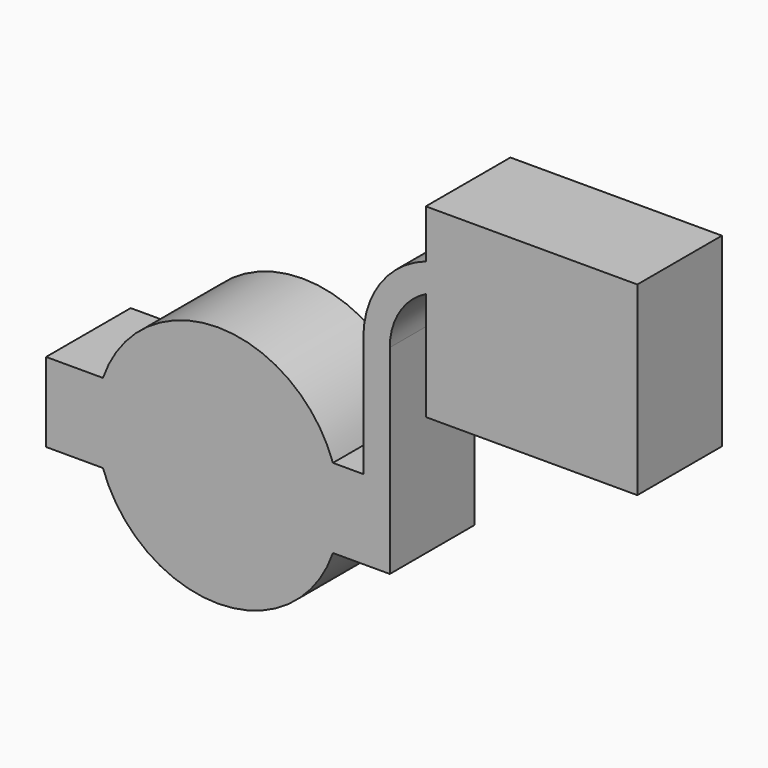
from build123d import *

# Parameters (mm, degrees)
F1_DEPTH = 25.4
F2_DEPTH = 25.4
F3_DEPTH = 25.4
F4_DEPTH = 25.4


with BuildPart() as f1:
    # F0 (on Front) → F1 (new body)
    with BuildSketch(Plane.XZ):
        with BuildLine():
            Line((34.9249988794, 38.3535841248), (34.9249988794, 9.525))
            Line((34.9249988794, 9.525), (41.275, 9.525))
            Line((41.275, 9.525), (41.275, 38.3535841248))
            ThreePointArc((41.275, 38.3535841248), (43.6085299046, 46.6387644279), (49.9230897833, 52.4882009827))
            Line((49.9230897833, 52.4882009827), (49.9230897833, 59.3707781223))
            ThreePointArc((49.9230897833, 59.3707781223), (39.0589972297, 51.2635141623), (34.9249988794, 38.3535841248))
        make_face()
        with BuildLine():
            Line((41.275, 9.525), (34.9249988794, 9.525))
            Line((34.9249988794, 9.525), (27.6167455206, 9.525))
            ThreePointArc((27.6167455206, 9.525), (28.811311946, 4.8289297054), (29.2131863745, 0))
            ThreePointArc((29.2131863745, 0), (28.811311946, -4.8289297054), (27.6167455206, -9.525))
            Line((27.6167455206, -9.525), (41.275, -9.525))
            Line((41.275, -9.525), (41.275, 9.525))
        make_face()
        with BuildLine():
            ThreePointArc((29.2131863745, 0), (28.811311946, 4.8289297054), (27.6167455206, 9.525))
            Line((27.6167455206, 9.525), (-27.6167455206, 9.525))
            ThreePointArc((-27.6167455206, 9.525), (-29.2131863745, 0), (-27.6167455206, -9.525))
            Line((-27.6167455206, -9.525), (27.6167455206, -9.525))
            ThreePointArc((27.6167455206, -9.525), (28.811311946, -4.8289297054), (29.2131863745, 0))
        make_face()
        with BuildLine():
            Line((-27.6167455206, 9.525), (27.6167455206, 9.525))
            ThreePointArc((27.6167455206, 9.525), (0, 29.2131863745), (-27.6167455206, 9.525))
        make_face()
        with BuildLine():
            ThreePointArc((-27.6167455206, -9.525), (-29.2131863745, 0), (-27.6167455206, 9.525))
            Line((-27.6167455206, 9.525), (-41.275, 9.525))
            Line((-41.275, 9.525), (-41.275, -9.525))
            Line((-41.275, -9.525), (-27.6167455206, -9.525))
        make_face()
        Polygon((49.9230897833, 71.0192042329), (49.9230897833, 59.3707781223), (49.9230897833, 52.4882009827), (49.9230897833, 26.4684122215), (100.7230897833, 26.4684122215), (100.7230897833, 71.0192042329), align=None)
        with BuildLine():
            ThreePointArc((-27.6167455206, -9.525), (0, -29.2131863745), (27.6167455206, -9.525))
            Line((27.6167455206, -9.525), (-27.6167455206, -9.525))
        make_face()
    extrude(amount=F1_DEPTH)

    # F0 (on Front) → F2 (join)
    with BuildSketch(Plane.XZ):
        with BuildLine():
            Line((34.9249988794, 38.3535841248), (34.9249988794, 9.525))
            Line((34.9249988794, 9.525), (41.275, 9.525))
            Line((41.275, 9.525), (41.275, 38.3535841248))
            ThreePointArc((41.275, 38.3535841248), (43.6085299046, 46.6387644279), (49.9230897833, 52.4882009827))
            Line((49.9230897833, 52.4882009827), (49.9230897833, 59.3707781223))
            ThreePointArc((49.9230897833, 59.3707781223), (39.0589972297, 51.2635141623), (34.9249988794, 38.3535841248))
        make_face()
        with BuildLine():
            Line((41.275, 9.525), (34.9249988794, 9.525))
            Line((34.9249988794, 9.525), (27.6167455206, 9.525))
            ThreePointArc((27.6167455206, 9.525), (28.811311946, 4.8289297054), (29.2131863745, 0))
            ThreePointArc((29.2131863745, 0), (28.811311946, -4.8289297054), (27.6167455206, -9.525))
            Line((27.6167455206, -9.525), (41.275, -9.525))
            Line((41.275, -9.525), (41.275, 9.525))
        make_face()
        with BuildLine():
            ThreePointArc((29.2131863745, 0), (28.811311946, 4.8289297054), (27.6167455206, 9.525))
            Line((27.6167455206, 9.525), (-27.6167455206, 9.525))
            ThreePointArc((-27.6167455206, 9.525), (-29.2131863745, 0), (-27.6167455206, -9.525))
            Line((-27.6167455206, -9.525), (27.6167455206, -9.525))
            ThreePointArc((27.6167455206, -9.525), (28.811311946, -4.8289297054), (29.2131863745, 0))
        make_face()
        with BuildLine():
            Line((-27.6167455206, 9.525), (27.6167455206, 9.525))
            ThreePointArc((27.6167455206, 9.525), (0, 29.2131863745), (-27.6167455206, 9.525))
        make_face()
        with BuildLine():
            ThreePointArc((-27.6167455206, -9.525), (-29.2131863745, 0), (-27.6167455206, 9.525))
            Line((-27.6167455206, 9.525), (-41.275, 9.525))
            Line((-41.275, 9.525), (-41.275, -9.525))
            Line((-41.275, -9.525), (-27.6167455206, -9.525))
        make_face()
        Polygon((49.9230897833, 71.0192042329), (49.9230897833, 59.3707781223), (49.9230897833, 52.4882009827), (49.9230897833, 26.4684122215), (100.7230897833, 26.4684122215), (100.7230897833, 71.0192042329), align=None)
        with BuildLine():
            ThreePointArc((-27.6167455206, -9.525), (0, -29.2131863745), (27.6167455206, -9.525))
            Line((27.6167455206, -9.525), (-27.6167455206, -9.525))
        make_face()
    extrude(amount=F2_DEPTH)

    # F0 (on Front) → F3 (join)
    with BuildSketch(Plane.XZ):
        with BuildLine():
            Line((34.9249988794, 38.3535841248), (34.9249988794, 9.525))
            Line((34.9249988794, 9.525), (41.275, 9.525))
            Line((41.275, 9.525), (41.275, 38.3535841248))
            ThreePointArc((41.275, 38.3535841248), (43.6085299046, 46.6387644279), (49.9230897833, 52.4882009827))
            Line((49.9230897833, 52.4882009827), (49.9230897833, 59.3707781223))
            ThreePointArc((49.9230897833, 59.3707781223), (39.0589972297, 51.2635141623), (34.9249988794, 38.3535841248))
        make_face()
        with BuildLine():
            Line((41.275, 9.525), (34.9249988794, 9.525))
            Line((34.9249988794, 9.525), (27.6167455206, 9.525))
            ThreePointArc((27.6167455206, 9.525), (28.811311946, 4.8289297054), (29.2131863745, 0))
            ThreePointArc((29.2131863745, 0), (28.811311946, -4.8289297054), (27.6167455206, -9.525))
            Line((27.6167455206, -9.525), (41.275, -9.525))
            Line((41.275, -9.525), (41.275, 9.525))
        make_face()
        with BuildLine():
            ThreePointArc((29.2131863745, 0), (28.811311946, 4.8289297054), (27.6167455206, 9.525))
            Line((27.6167455206, 9.525), (-27.6167455206, 9.525))
            ThreePointArc((-27.6167455206, 9.525), (-29.2131863745, 0), (-27.6167455206, -9.525))
            Line((-27.6167455206, -9.525), (27.6167455206, -9.525))
            ThreePointArc((27.6167455206, -9.525), (28.811311946, -4.8289297054), (29.2131863745, 0))
        make_face()
        with BuildLine():
            Line((-27.6167455206, 9.525), (27.6167455206, 9.525))
            ThreePointArc((27.6167455206, 9.525), (0, 29.2131863745), (-27.6167455206, 9.525))
        make_face()
        with BuildLine():
            ThreePointArc((-27.6167455206, -9.525), (-29.2131863745, 0), (-27.6167455206, 9.525))
            Line((-27.6167455206, 9.525), (-41.275, 9.525))
            Line((-41.275, 9.525), (-41.275, -9.525))
            Line((-41.275, -9.525), (-27.6167455206, -9.525))
        make_face()
        Polygon((49.9230897833, 71.0192042329), (49.9230897833, 59.3707781223), (49.9230897833, 52.4882009827), (49.9230897833, 26.4684122215), (100.7230897833, 26.4684122215), (100.7230897833, 71.0192042329), align=None)
        with BuildLine():
            ThreePointArc((-27.6167455206, -9.525), (0, -29.2131863745), (27.6167455206, -9.525))
            Line((27.6167455206, -9.525), (-27.6167455206, -9.525))
        make_face()
    extrude(amount=F3_DEPTH)

    # F0 (on Front) → F4 (join)
    with BuildSketch(Plane.XZ):
        with BuildLine():
            Line((34.9249988794, 38.3535841248), (34.9249988794, 9.525))
            Line((34.9249988794, 9.525), (41.275, 9.525))
            Line((41.275, 9.525), (41.275, 38.3535841248))
            ThreePointArc((41.275, 38.3535841248), (43.6085299046, 46.6387644279), (49.9230897833, 52.4882009827))
            Line((49.9230897833, 52.4882009827), (49.9230897833, 59.3707781223))
            ThreePointArc((49.9230897833, 59.3707781223), (39.0589972297, 51.2635141623), (34.9249988794, 38.3535841248))
        make_face()
        with BuildLine():
            Line((41.275, 9.525), (34.9249988794, 9.525))
            Line((34.9249988794, 9.525), (27.6167455206, 9.525))
            ThreePointArc((27.6167455206, 9.525), (28.811311946, 4.8289297054), (29.2131863745, 0))
            ThreePointArc((29.2131863745, 0), (28.811311946, -4.8289297054), (27.6167455206, -9.525))
            Line((27.6167455206, -9.525), (41.275, -9.525))
            Line((41.275, -9.525), (41.275, 9.525))
        make_face()
        with BuildLine():
            ThreePointArc((29.2131863745, 0), (28.811311946, 4.8289297054), (27.6167455206, 9.525))
            Line((27.6167455206, 9.525), (-27.6167455206, 9.525))
            ThreePointArc((-27.6167455206, 9.525), (-29.2131863745, 0), (-27.6167455206, -9.525))
            Line((-27.6167455206, -9.525), (27.6167455206, -9.525))
            ThreePointArc((27.6167455206, -9.525), (28.811311946, -4.8289297054), (29.2131863745, 0))
        make_face()
        with BuildLine():
            Line((-27.6167455206, 9.525), (27.6167455206, 9.525))
            ThreePointArc((27.6167455206, 9.525), (0, 29.2131863745), (-27.6167455206, 9.525))
        make_face()
        with BuildLine():
            ThreePointArc((-27.6167455206, -9.525), (-29.2131863745, 0), (-27.6167455206, 9.525))
            Line((-27.6167455206, 9.525), (-41.275, 9.525))
            Line((-41.275, 9.525), (-41.275, -9.525))
            Line((-41.275, -9.525), (-27.6167455206, -9.525))
        make_face()
        Polygon((49.9230897833, 71.0192042329), (49.9230897833, 59.3707781223), (49.9230897833, 52.4882009827), (49.9230897833, 26.4684122215), (100.7230897833, 26.4684122215), (100.7230897833, 71.0192042329), align=None)
        with BuildLine():
            ThreePointArc((-27.6167455206, -9.525), (0, -29.2131863745), (27.6167455206, -9.525))
            Line((27.6167455206, -9.525), (-27.6167455206, -9.525))
        make_face()
    extrude(amount=F4_DEPTH)


solid = f1.part
